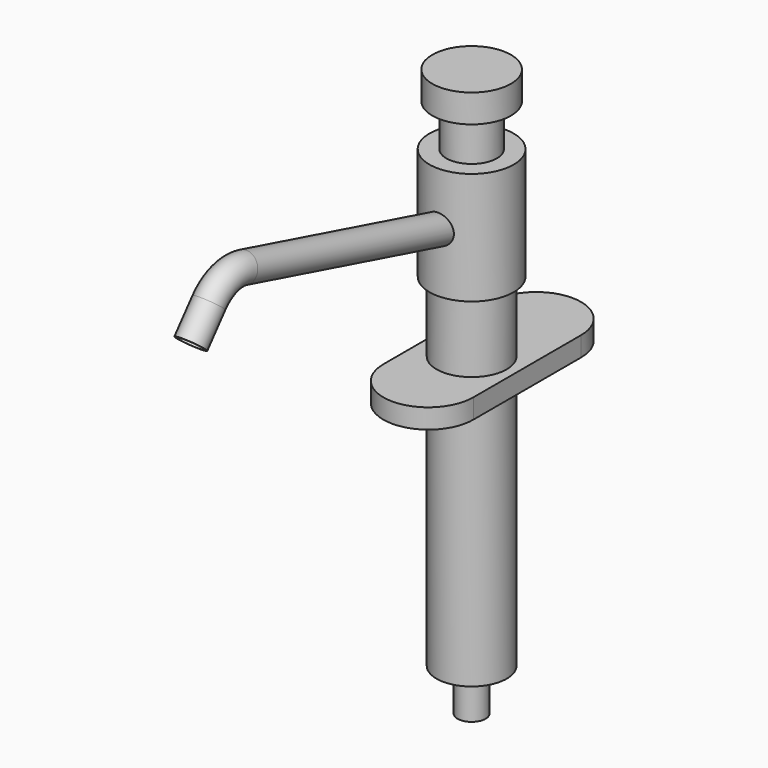
from build123d import *

# Parameters (mm, degrees)
F1_DEPTH = 7
F6_R     = 5
F6_R_2   = 4.5


with BuildPart() as f1:
    # F0 (on Top) → F1 (new body)
    with BuildSketch(Plane.XY):
        with BuildLine():
            Line((-16.2101432325, 48), (-16.2101432325, 0))
            ThreePointArc((-16.2101432325, 0), (-0.2101432325, -16), (15.7898567675, 0))
            Line((15.7898567675, 0), (15.7898567675, 48))
            ThreePointArc((15.7898567675, 48), (-0.2101432325, 64), (-16.2101432325, 48))
        make_face()
    extrude(amount=F1_DEPTH)

    # F2 (on Right) → F3 (revolve)
    with BuildSketch(Plane.YZ):
        Polygon((33, 97), (19, 97), (19, -105), (24, -105), (24, -90), (31.5, -90), (31.5, 32), (34, 32), (34, 72), (28, 72), (28, 87), (33, 87), align=None)
    revolve(axis=Axis((0, 19, -4), (0, 0, -1)))

    # F7: sweep along a path in F4
    with BuildLine(Plane.YZ) as f7_path:
        Line((-106, 61.7881254457), (-97.95775995, 71.3724939178))
        ThreePointArc((-97.95775995, 71.3724939178), (-90.9776802958, 76.0364340337), (-82.5848076267, 76.2195671668))
        Line((-82.5848076267, 76.2195671668), (19, 49))
    # F6 (on line) → F7 (sweep)
    with BuildSketch(Plane(origin=(0, -13.3719340922, -15.9360504943), x_dir=(1, 0, 0), z_dir=(0, -0.6427876097, -0.7660444431))):
        with Locations((0, 120.9173524329)):
            Circle(F6_R)
        with Locations((0, 120.9173524329)):
            Circle(F6_R_2, mode=Mode.SUBTRACT)
    sweep(path=f7_path.line)


solid = f1.part
